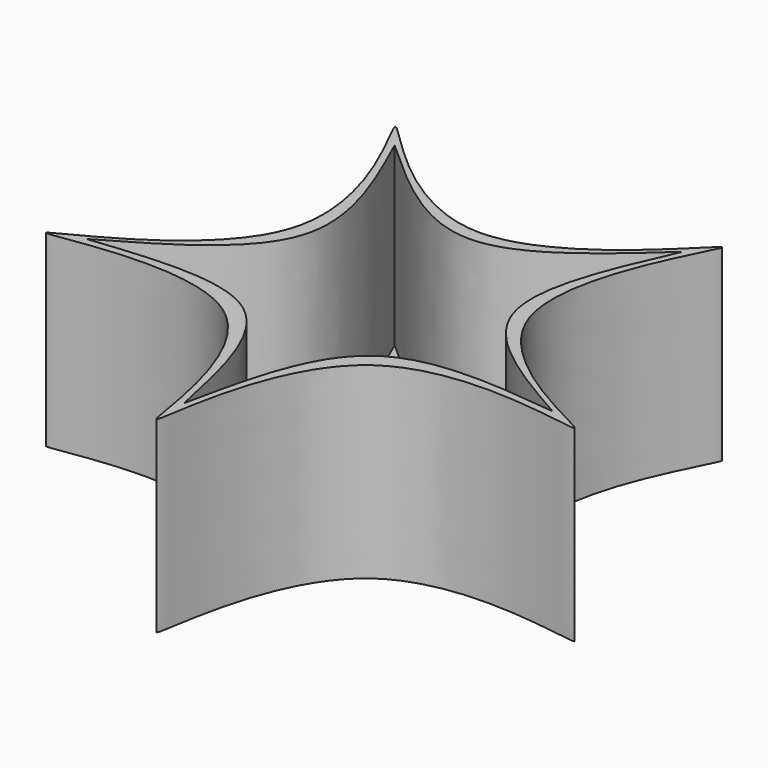
from build123d import *

# Parameters (mm, degrees)
F2_DEPTH = 50.8
F3_DEPTH = 47.625


with BuildPart() as f2:
    # F0 (on Top) → F2 (new body)
    with BuildSketch(Plane.XY):
        with BuildLine():
            add(Edge.make_bspline(
                [(-44.1675498836, 60.7914171314), (-43.1208399768, 61.5518963932), (0, 6.603455561), (64.6812599651, 89.0261168093), (6.2802594413, 2.0405799899), (104.6564770587, -34.0049507347), (3.8814137929, -5.3423077704), (0, -110.0423321491), (-3.8814137929, -5.3423077704), (-104.6564770587, -34.0049507347), (-6.2802594413, 2.0405799899), (-45.2142597905, 60.0309378695), (-44.1675498836, 60.7914171314)],
                knots=[0, 0, 0, 0, 0.1, 0.2, 0.3, 0.4, 0.5, 0.6, 0.7, 0.8, 0.9, 1, 1, 1, 1], degree=3))
        make_face()
    extrude(amount=-F2_DEPTH)

    # F1 (on Top) → F3 (cut)
    with BuildSketch(Plane.XY):
        with BuildLine():
            add(Edge.make_bspline(
                [(-38.9751103184, 54.0271829379), (-25.9834068789, 42.2409844416), (0, 18.6685874491), (25.9834068789, 42.2409844416), (38.9751103184, 54.0271829379)],
                knots=[0, 0, 0, 0, 0.5, 1, 1, 1, 1], degree=3))
            add(Edge.make_bspline(
                [(-63.0630532104, -20.1078823454), (-47.8390551796, -11.3941737659), (-17.3910591178, 6.033243393), (-31.7804265849, 38.0292030896), (-38.9751103184, 54.0271829379)],
                knots=[0, 0, 0, 0, 0.5, 1, 1, 1, 1], degree=3))
            add(Edge.make_bspline(
                [(0, -65.9258724486), (-3.5827552117, -48.7543058822), (-10.7482656352, -14.4111727494), (-45.6247906853, -18.2089791467), (-63.0630532104, -20.1078823454)],
                knots=[0, 0, 0, 0, 0.5, 1, 1, 1, 1], degree=3))
            add(Edge.make_bspline(
                [(63.0630532104, -20.1078823454), (45.6247906853, -18.2089791467), (10.7482656352, -14.4111727494), (3.5827552117, -48.7543058822), (0, -65.9258724486)],
                knots=[0, 0, 0, 0, 0.5, 1, 1, 1, 1], degree=3))
            add(Edge.make_bspline(
                [(38.9751103184, 54.0271829379), (31.7804265849, 38.0292030896), (17.3910591178, 6.033243393), (47.8390551796, -11.3941737659), (63.0630532104, -20.1078823454)],
                knots=[0, 0, 0, 0, 0.5, 1, 1, 1, 1], degree=3))
        make_face()
    extrude(amount=-F3_DEPTH, mode=Mode.SUBTRACT)


solid = f2.part
